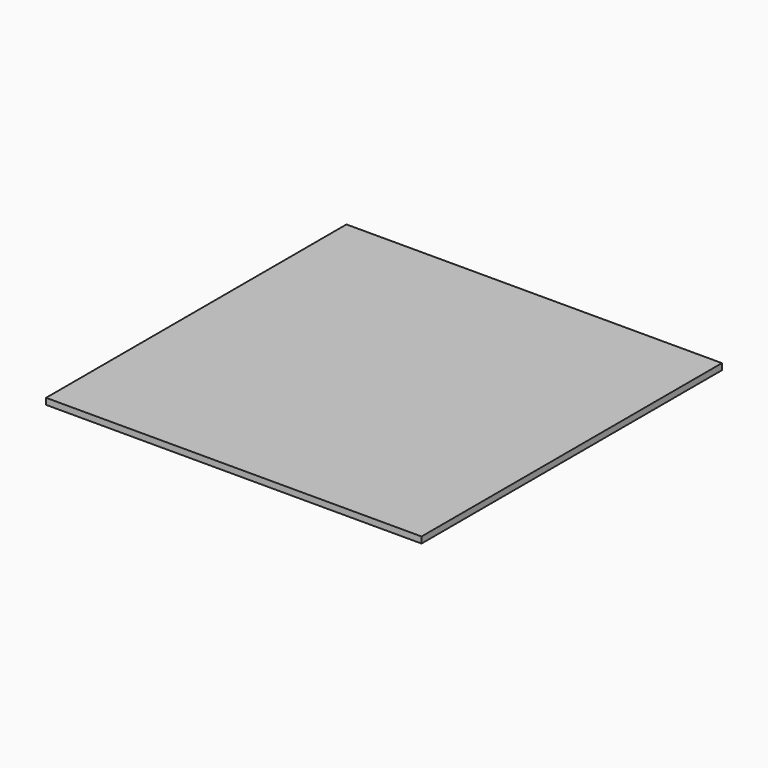
from build123d import *

# Parameters (mm, degrees)
SKETCH_W  = 120
SKETCH_H  = 120
PAD_DEPTH = 2


with BuildPart() as part:
    # Sketch → Pad (new body)
    with BuildSketch(Plane.XY):
        Rectangle(SKETCH_W, SKETCH_H)
    extrude(amount=-PAD_DEPTH)


solid = part.part
